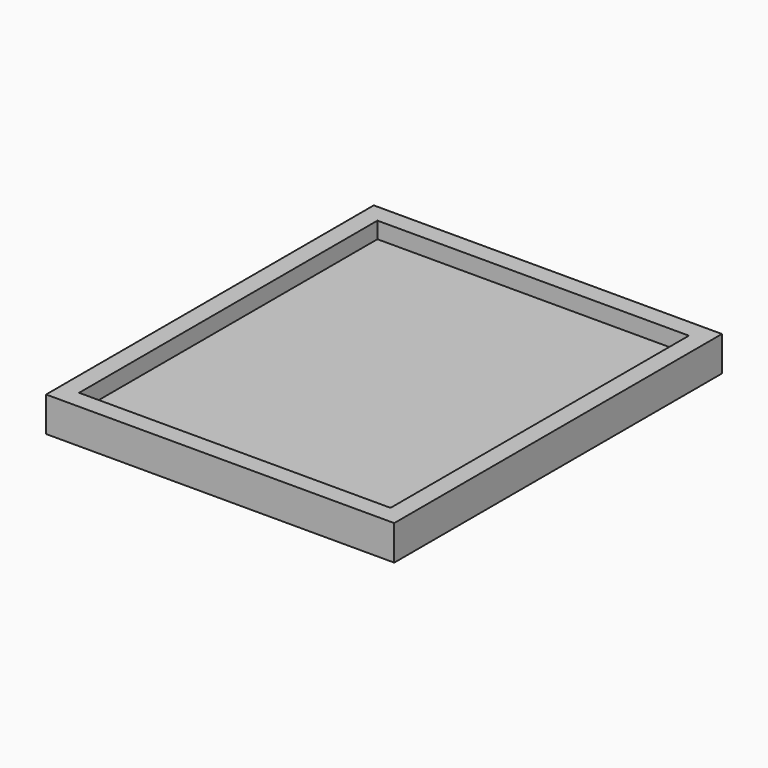
from build123d import *

# Parameters (mm, degrees)
F0_W      = 539.75
F0_H      = 53.975
F1_DEPTH  = 635
F2_W      = 482.854
F2_H      = 578.104
F3_DEPTH  = 25.4
F1_FACE_W = 539.75
F1_FACE_H = 635
F5_DEPTH  = 28.575


with BuildPart() as f1:
    # F0 (on Front) → F1 (new body)
    with BuildSketch(Plane.XZ):
        with Locations((269.875, 26.9875)):
            Rectangle(F0_W, F0_H)
    extrude(amount=-F1_DEPTH)

    # F2 (on face) → F3 (cut)
    with BuildSketch(Plane.XY.offset(53.975)):
        with Locations((269.875, 317.5)):
            Rectangle(F2_W, F2_H)
    extrude(amount=-F3_DEPTH, mode=Mode.SUBTRACT)


with BuildPart() as f5:
    # F1_face (on face) → F5 (new body)
    with BuildSketch(Plane(origin=(269.875, 317.5, 53.975), x_dir=(1, 0, 0), z_dir=(0, 0, 1))):
        Rectangle(F1_FACE_W, F1_FACE_H)
    extrude(amount=F5_DEPTH)


solid = f1.part
